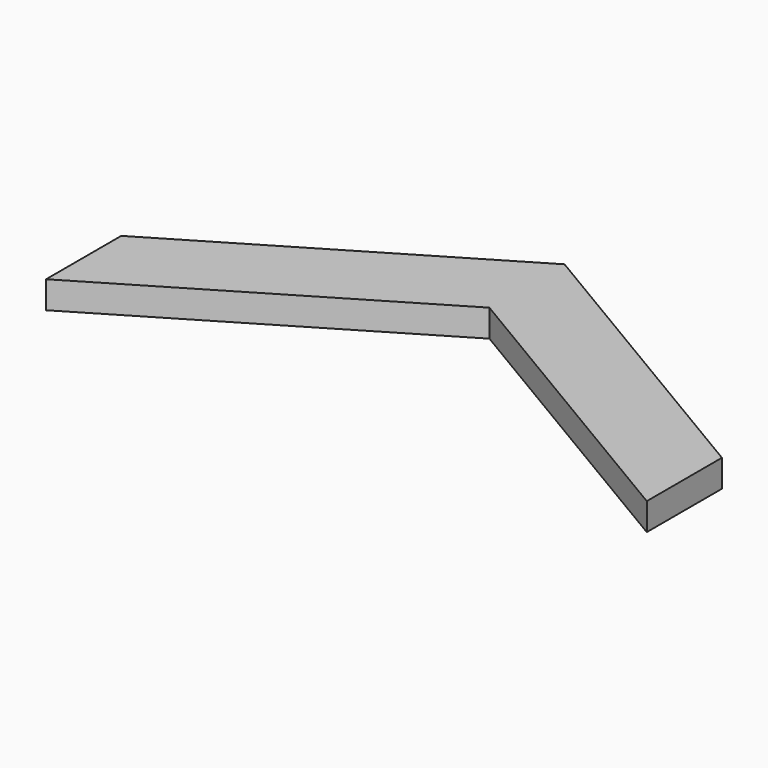
from build123d import *

# Parameters (mm, degrees)
PAD_DEPTH = 3.175


with BuildPart() as part:
    # Sketch → Pad (new body)
    with BuildSketch(Plane.XY):
        Polygon((0, 0), (-34.925, -20.781097), (-34.925, -9.859097), (0, 10.922), (34.925, -9.859097), (34.925, -20.781097), align=None)
    extrude(amount=PAD_DEPTH)


solid = part.part
